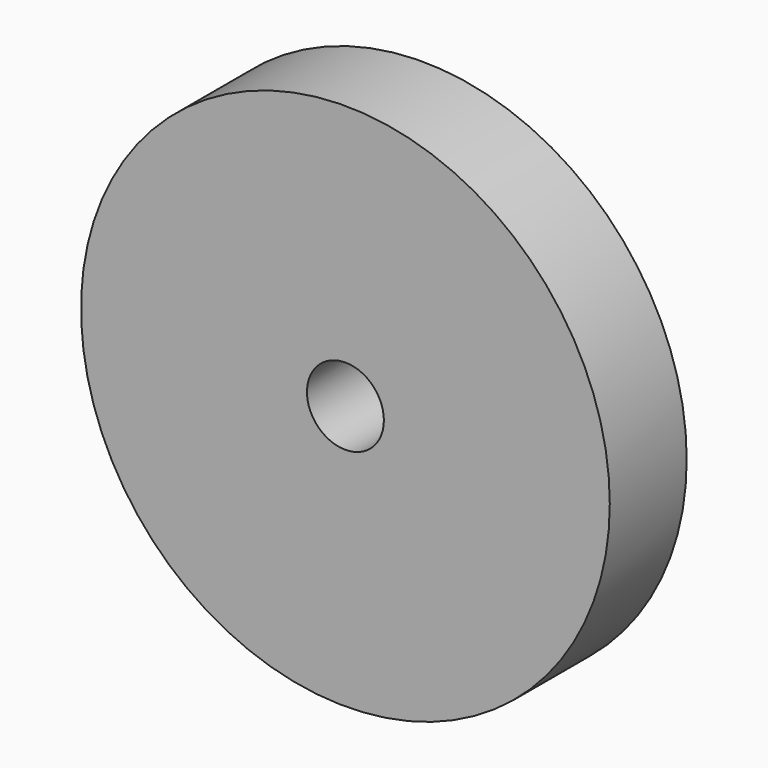
from build123d import *

# Parameters (mm, degrees)
F0_R     = 68.75
F0_R_2   = 10
F1_DEPTH = 25


with BuildPart() as f1:
    # F0 (on Front) → F1 (new body)
    with BuildSketch(Plane.XZ):
        with Locations((-11.957844, -7.861787)):
            Circle(F0_R)
        with Locations((-11.957844, -7.861787)):
            Circle(F0_R_2, mode=Mode.SUBTRACT)
        with Locations((-11.957844, -7.861787)):
            Circle(F0_R)
        with Locations((-11.957844, -7.861787)):
            Circle(F0_R_2, mode=Mode.SUBTRACT)
    extrude(amount=F1_DEPTH)


solid = f1.part
